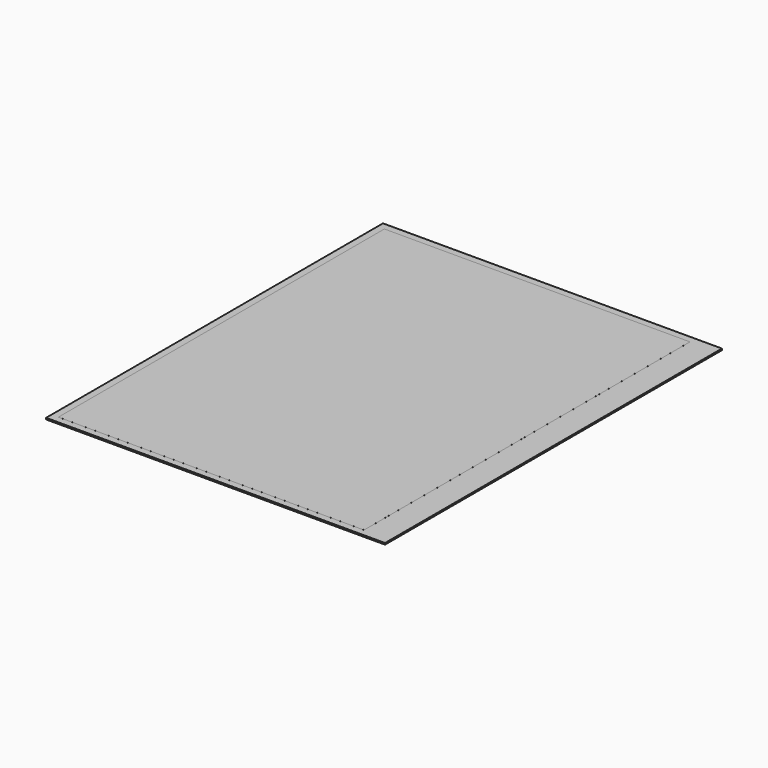
from build123d import *

# Parameters (mm, degrees)
SKETCH_W     = 157.25
SKETCH_H     = 209.66
PAD_DEPTH    = 0.78
SKETCH001_W  = 174.4
SKETCH001_H  = 216.7
PAD001_DEPTH = 0.77


with BuildPart() as part:
    # Sketch → Pad (new body)
    with BuildSketch(Plane.XY):
        Rectangle(SKETCH_W, SKETCH_H)
    extrude(amount=PAD_DEPTH)

    # Sketch001 → Pad001 (join)
    with BuildSketch(Plane.XY):
        with Locations((5.055, 0)):
            Rectangle(SKETCH001_W, SKETCH001_H)
    extrude(amount=PAD001_DEPTH)


solid = part.part
